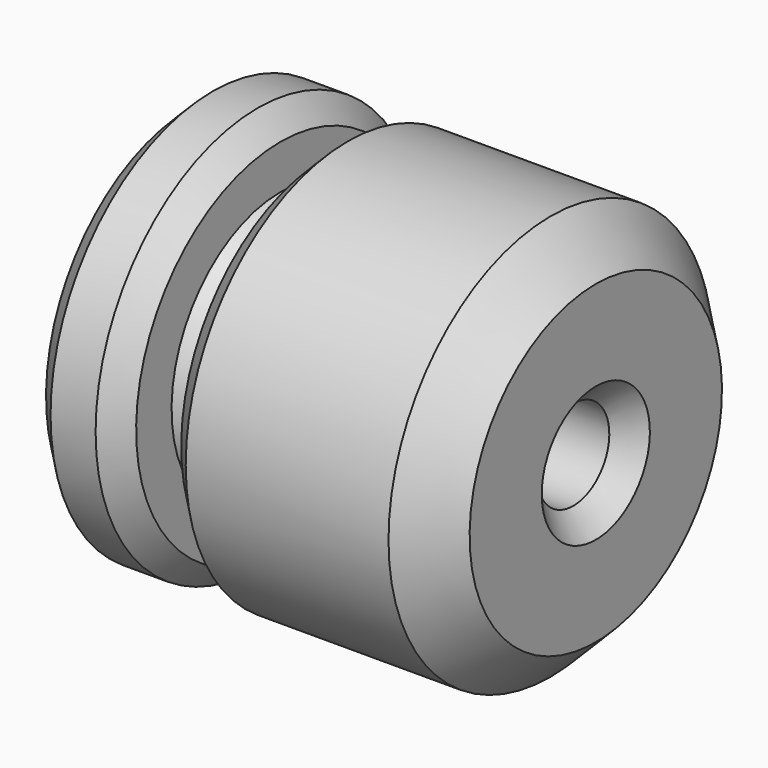
from build123d import *

# Parameters (mm, degrees)
F2_SIZE = 5


with BuildPart() as f1:
    # F0 (on Front) → F1 (revolve)
    with BuildSketch(Plane.XZ):
        Polygon((20, 0), (0, 0), (0, -35), (90, -35), (90, -10), (80, 0), (30, 0), (30, -17.5), (20, -14.8205080757), align=None)
    revolve(axis=Axis((44.4514416158, 0, -45), (1, 0, 0)))

    # F2
    f2_edges = [f1.edges().sort_by_distance(p)[0] for p in [
        (0, 0, -90),
        (20, 0, -90),
        (30, 0, -90),
        (0, 0, -55),
        (90, 0, -55),
    ]]
    chamfer(f2_edges, length=F2_SIZE)


solid = f1.part
